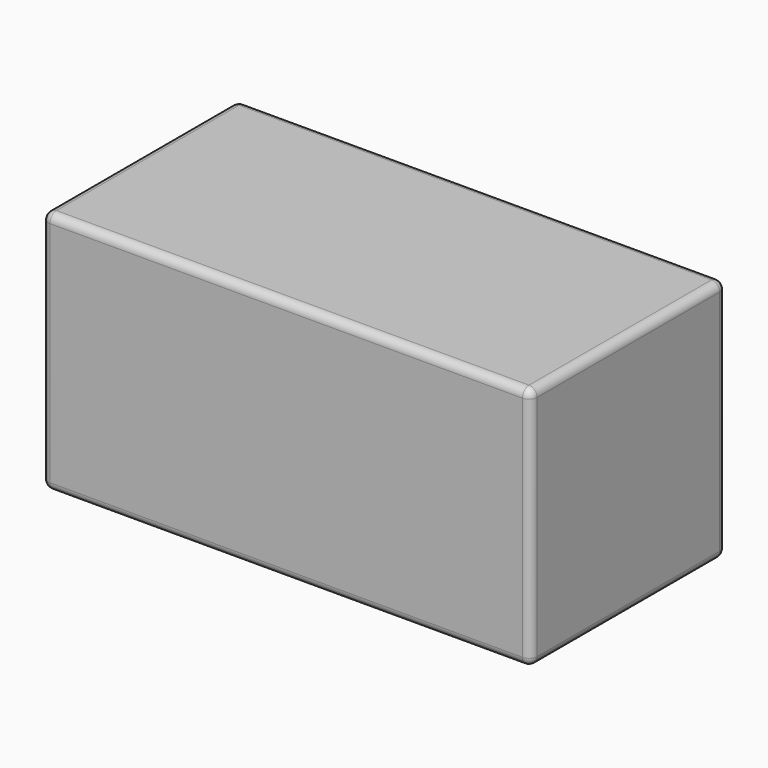
from build123d import *

# Parameters (mm, degrees)
F0_W     = 3
F0_H     = 3
F1_DEPTH = 1.5
F2_R     = 0.1


with BuildPart() as f1:
    # F0 (on Top) → F1 (new body, symmetric)
    with BuildSketch(Plane.XY):
        with Locations((-1.5, 0)):
            Rectangle(F0_W, F0_H)
        with Locations((1.5, 0)):
            Rectangle(F0_W, F0_H)
    extrude(amount=F1_DEPTH, both=True)

    # F2
    f2_edges = [f1.edges().sort_by_distance(p)[0] for p in [
        (3, 1.5, 0),
        (-3, -1.5, 0),
        (-3, 0, 1.5),
        (3, 0, -1.5),
        (3, -1.5, 0),
        (0, -1.5, -1.5),
        (0, -1.5, 1.5),
        (0, 1.5, 1.5),
        (3, 0, 1.5),
        (-3, 1.5, 0),
        (-3, 0, -1.5),
        (0, 1.5, -1.5),
    ]]
    fillet(f2_edges, radius=F2_R)


solid = f1.part
